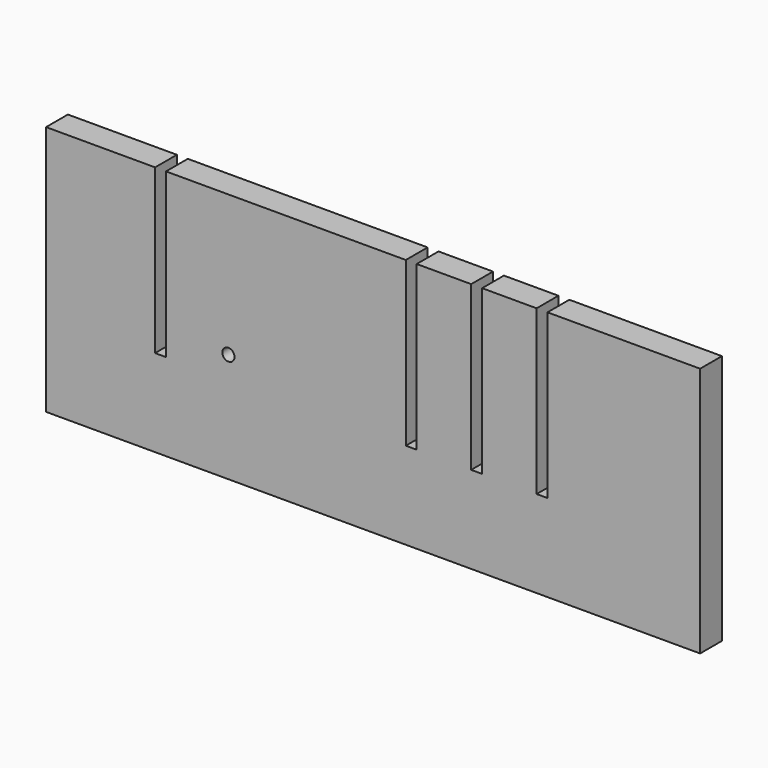
from build123d import *

# Parameters (mm, degrees)
F0_R     = 5.602905
F1_DEPTH = 25


with BuildPart() as f1:
    # F0 (on Front) → F1 (new body)
    with BuildSketch(Plane.XZ):
        Polygon((-53.839558, 195.515509), (-153.839558, 195.515509), (-153.839558, -34.484491), (446.160442, -34.484491), (446.160442, 195.515509), (306.160442, 195.515509), (306.160442, 45.515509), (296.160442, 45.515509), (296.160442, 195.515509), (246.160442, 195.515509), (246.160442, 45.515509), (236.160442, 45.515509), (236.160442, 195.515509), (186.160442, 195.515509), (186.160442, 45.515509), (176.160442, 45.515509), (176.160442, 195.515509), (-43.839558, 195.515509), (-43.839558, 45.515509), (-53.839558, 45.515509), align=None)
        with Locations((13.436623, 66.090696)):
            Circle(F0_R, mode=Mode.SUBTRACT)
    extrude(amount=F1_DEPTH)


solid = f1.part
